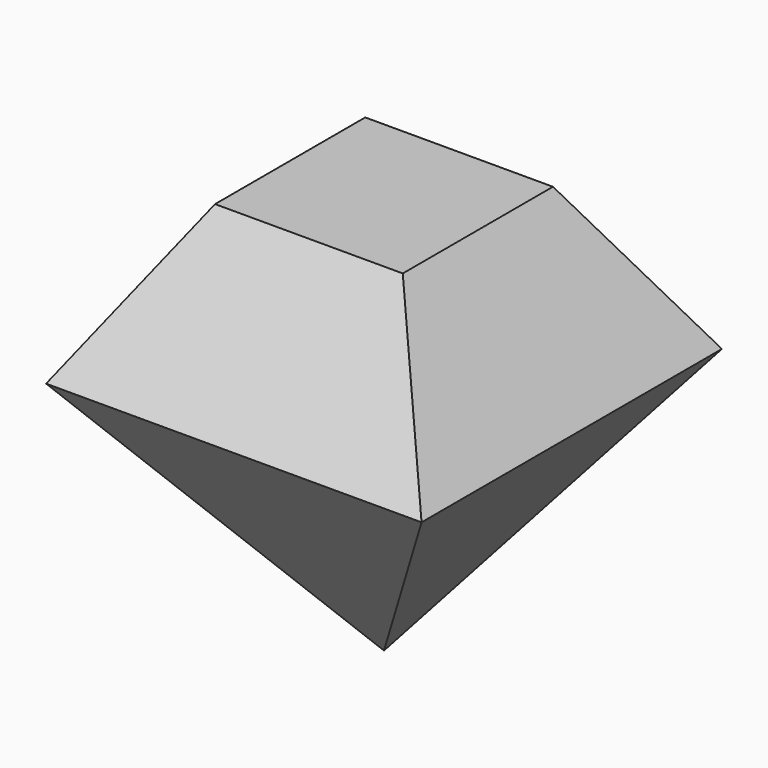
from build123d import *

# Parameters (mm, degrees)
F0_W     = 91.44
F0_H     = 116.84
F1_DEPTH = 91.44
F4_DEPTH = 127
F5_DEPTH = 152.4


with BuildPart() as f1:
    # F0 (on Front) → F1 (new body)
    with BuildSketch(Plane.XZ):
        with Locations((0, -2.535963)):
            Rectangle(F0_W, F0_H)
    extrude(amount=F1_DEPTH)

    # F2 (on face) → F4 (cut)
    with BuildSketch(Plane.XZ.offset(91.44)):
        Polygon((-45.72, 55.884037), (-45.72, 0), (-22.86, 36.632401), (22.86, 36.632401), (45.72, 0), (45.72, 55.884037), align=None)
        Polygon((45.72, 0), (0, -60.955963), (45.72, -60.955963), align=None)
        Polygon((-45.72, -60.955963), (0, -60.955963), (-45.72, 0), align=None)
    extrude(amount=-F4_DEPTH, mode=Mode.SUBTRACT)

    # F3 (on face) → F5 (cut)
    with BuildSketch(Plane.YZ.offset(45.72)):
        Polygon((-91.44, 55.884037), (-91.44, 0), (-68.58, 36.632401), (-22.86, 36.632401), (0, 0), (0, 55.884037), align=None)
        Polygon((0, 0), (-45.72, -60.955963), (0, -60.955963), align=None)
        Polygon((-91.44, -60.955963), (-45.72, -60.955963), (-91.44, 0), align=None)
    extrude(amount=-F5_DEPTH, mode=Mode.SUBTRACT)


solid = f1.part
